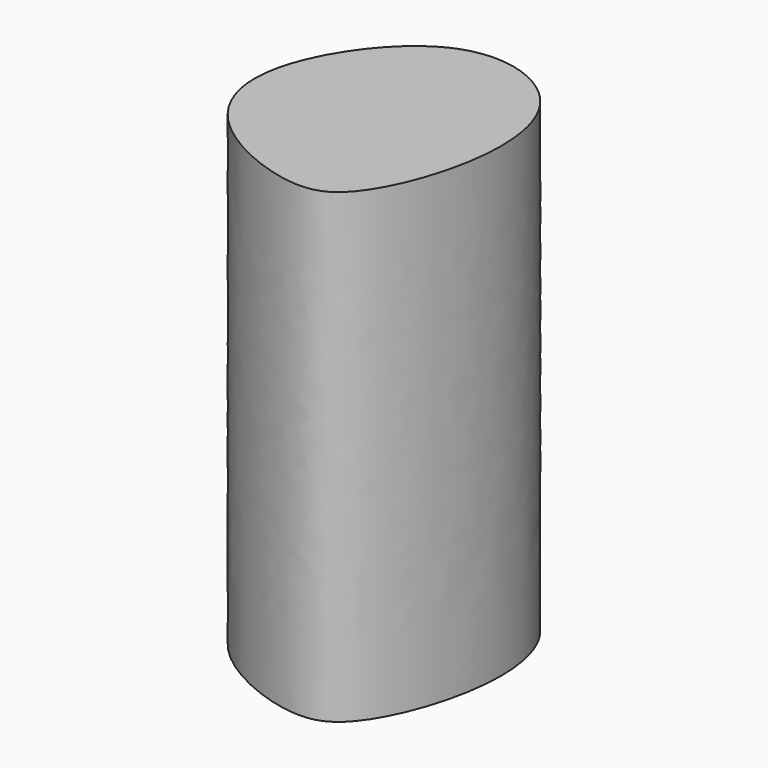
from build123d import *

# Parameters (mm, degrees)
F1_DEPTH = 127


with BuildPart() as f1:
    # F0 (on Top) → F1 (new body)
    with BuildSketch(Plane.XY):
        with BuildLine():
            add(Edge.make_bspline(
                [(-19.9657976627, 45.0698547065), (-10.0157290765, 48.7660433572), (12.3198960595, 41.6516904902), (17.5754322409, 8.8476355011), (5.2371399106, -22.676752997), (-9.9473478058, -27.430922439), (-40.352141728, -15.0132648244), (-50.9763762998, 13.8378363882), (-31.8834663018, 40.6427544122), (-19.9657976627, 45.0698547065)],
                knots=[0, 0, 0, 0, 0.1428968644, 0.2916479513, 0.442902426, 0.5414254845, 0.6885489493, 0.8288456542, 1, 1, 1, 1], degree=3))
        make_face()
    extrude(amount=F1_DEPTH)


solid = f1.part
